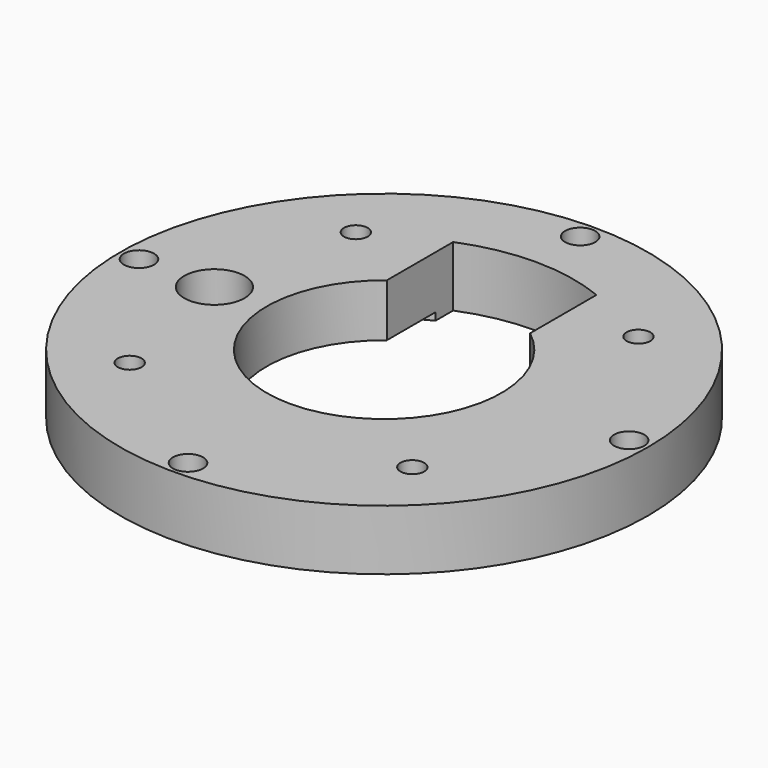
from build123d import *

# Parameters (mm, degrees)
F0_R     = 70
F1_DEPTH = 16
F2_R     = 31.12
F3_DEPTH = 16.001
F4_R     = 3.15
F4_R_2   = 8
F4_R_3   = 4
F5_DEPTH = 16.001
F6_R     = 45
F7_DEPTH = 2
F8_R     = 60
F8_R_2   = 58
F9_DEPTH = 2


with BuildPart() as f1:
    # F0 (on Top) → F1 (new body)
    with BuildSketch(Plane.XY):
        Circle(F0_R)
    extrude(amount=F1_DEPTH)

    # F2 (on face) → F3 (cut, through all)
    with BuildSketch(Plane.XY.offset(16)):
        Circle(F2_R)
    extrude(amount=-F3_DEPTH, mode=Mode.SUBTRACT)

    # F4 (on face) → F5 (cut, through all)
    with BuildSketch(Plane(origin=(0, 0, 0), x_dir=(1, 0, 0), z_dir=(0, 0, -1))):
        with BuildLine():
            Line((-19, -24.64659), (-19, -46.64659))
            ThreePointArc((-19, -46.64659), (0, -50.367692), (19, -46.64659))
            Line((19, -46.64659), (19, -24.64659))
            ThreePointArc((19, -24.64659), (0, -31.12), (-19, -24.64659))
        make_face()
        with Locations((-37.476659, -37.476659)):
            Circle(F4_R)
        with Locations((-45, 0)):
            Circle(F4_R_2)
        with Locations((-65, 0)):
            Circle(F4_R_3)
        with Locations((-37.476659, 37.476659)):
            Circle(F4_R)
        with Locations((37.476659, 37.476659)):
            Circle(F4_R)
        with Locations((37.476659, -37.476659)):
            Circle(F4_R)
        with Locations((65, 0)):
            Circle(F4_R_3)
        with Locations((0, 65)):
            Circle(F4_R_3)
        with Locations((0, -65)):
            Circle(F4_R_3)
    extrude(amount=-F5_DEPTH, mode=Mode.SUBTRACT)

    # F6 (on face) → F7 (cut)
    with BuildSketch(Plane(origin=(0, 0, 0), x_dir=(1, 0, 0), z_dir=(0, 0, -1))):
        Circle(F6_R)
    extrude(amount=-F7_DEPTH, mode=Mode.SUBTRACT)

    # F8 (on face) → F9 (cut)
    with BuildSketch(Plane(origin=(0, 0, 0), x_dir=(1, 0, 0), z_dir=(0, 0, -1))):
        Circle(F8_R)
        Circle(F8_R_2, mode=Mode.SUBTRACT)
    extrude(amount=-F9_DEPTH, mode=Mode.SUBTRACT)


solid = f1.part
